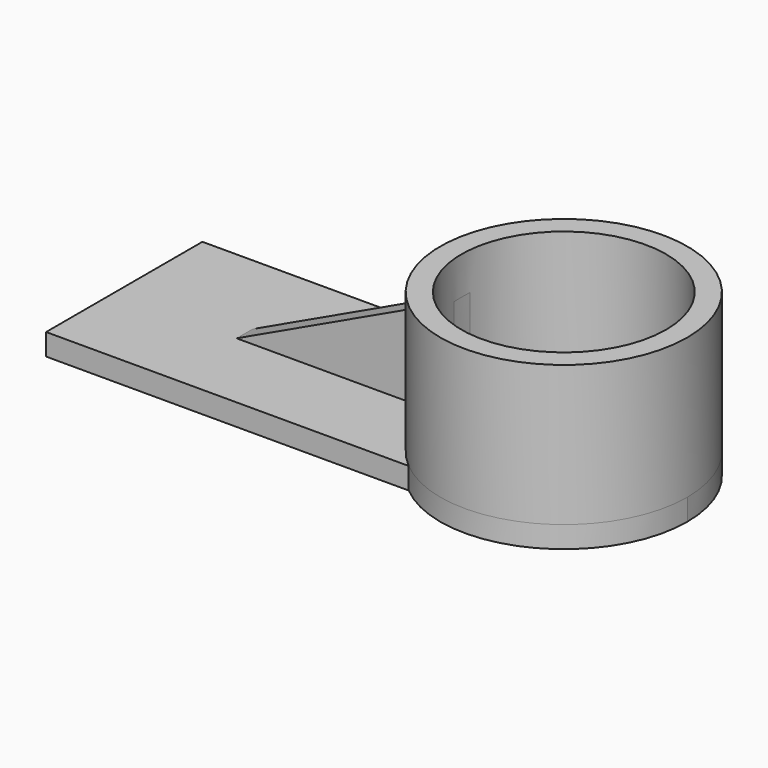
from build123d import *

# Parameters (mm, degrees)
F1_R     = 51.4012769419
F1_R_2   = 42.5693345022
F2_DEPTH = 9
F3_DEPTH = 58.5
F4_DEPTH = 4.15
F5_W     = 153.4909196198
F5_H     = 81.327278167
F6_DEPTH = 9
F7_DEPTH = 81.9
F8_DEPTH = 2.2


with BuildPart() as f2:
    # F1 (on Top) → F2 (new body)
    with BuildSketch(Plane.XY):
        with Locations((92.0659080148, 0)):
            Circle(F1_R)
        with Locations((92.0659080148, 0)):
            Circle(F1_R_2, mode=Mode.SUBTRACT)
    extrude(amount=-F2_DEPTH)

    # F1 (on Top) → F3 (join)
    with BuildSketch(Plane.XY):
        with Locations((92.0659080148, 0)):
            Circle(F1_R)
        with Locations((92.0659080148, 0)):
            Circle(F1_R_2, mode=Mode.SUBTRACT)
    extrude(amount=F3_DEPTH)

    # F0 (on Front) → F4 (join, symmetric)
    with BuildSketch(Plane.XZ):
        Polygon((55.6977316737, 45.6750020385), (-64.4393563271, -11.1907897517), (55.6977316737, -11.1907897517), align=None)
    extrude(amount=F4_DEPTH, both=True)

    # F5 (on Top) → F6 (join)
    with BuildSketch(Plane.XY):
        with Locations((-15.1641424745, 1.2886393815)):
            Rectangle(F5_W, F5_H)
    extrude(amount=-F6_DEPTH)

    # F7 (cut): faces of the model
    f7_faces = [f2.faces().sort_by_distance(p)[0] for p in [
        (57.1486967717, 0, 0),
        (52.6306177028, 0, 44.2232116932),
    ]]
    extrude(f7_faces, amount=-F7_DEPTH, dir=(0, 0, 1), mode=Mode.SUBTRACT)

    # F8 (cut): a face of the model
    f8_faces = [f2.faces().sort_by_distance(p)[0] for p in [
        (-7.4376125562, 1e-10, -11.1907897517),
    ]]
    extrude(f8_faces, amount=-F8_DEPTH, mode=Mode.SUBTRACT)


solid = f2.part
